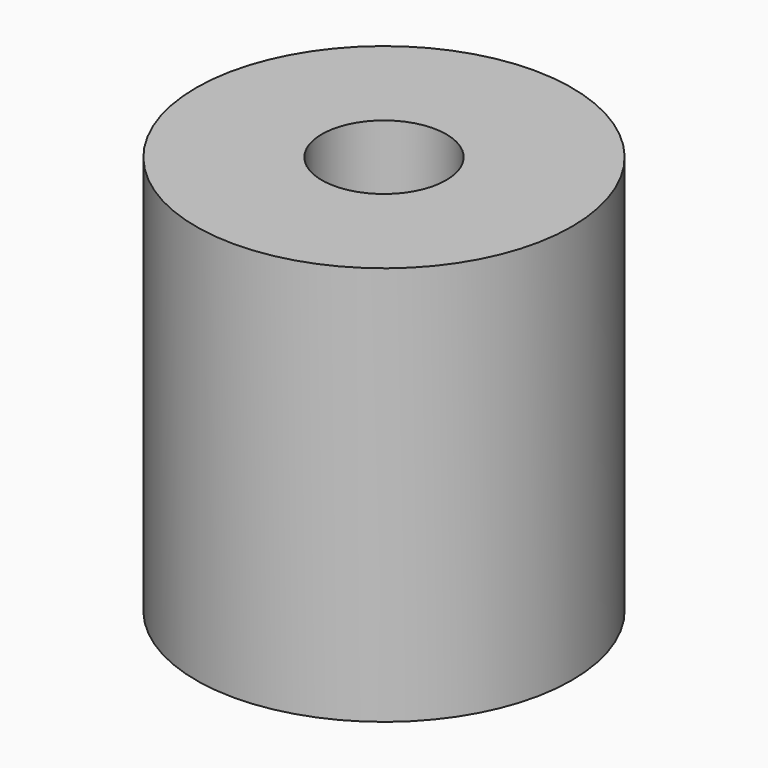
from build123d import *

# Parameters (mm, degrees)
CYLINDER1828_R     = 2.65
CYLINDER1828_DEPTH = 40
CYLINDER1829_R     = 8
CYLINDER1829_DEPTH = 17


with BuildPart() as obj1:
    # Cylinder1828 → Cylinder1828 (new body)
    with BuildSketch(Plane(origin=(0, 83, 232), x_dir=(1, 0, 0), z_dir=(0, 0, 1))):
        Circle(CYLINDER1828_R)
    extrude(amount=CYLINDER1828_DEPTH)


with BuildPart() as cut559:
    # Cylinder1829 → Cylinder1829 (new body)
    with BuildSketch(Plane(origin=(0, 83, 252), x_dir=(1, 0, 0), z_dir=(0, 0, 1))):
        Circle(CYLINDER1829_R)
    extrude(amount=CYLINDER1829_DEPTH)

    # Cut559: cut obj1
    add(obj1.part, mode=Mode.SUBTRACT)


solid = cut559.part
